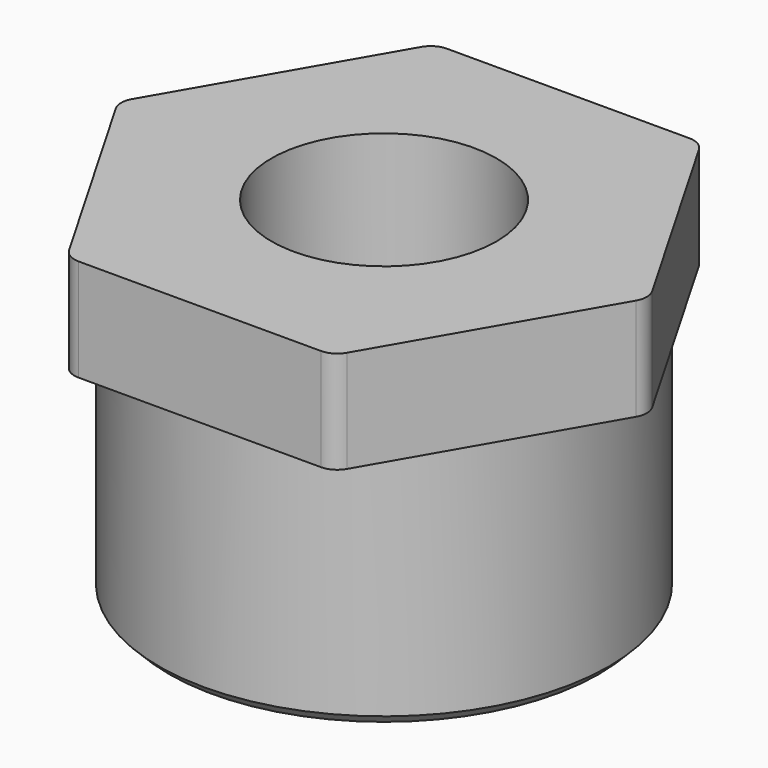
from build123d import *

# Parameters (mm, degrees)
F1_DEPTH = 5
F2_R     = 1
F4_R     = 11
F5_DEPTH = 12
F6_SIZE  = 0.5
F7_R     = 5.5
F8_DEPTH = 17.001


with BuildPart() as f1:
    # F0 (on Top) → F1 (new body)
    with BuildSketch(Plane.XY):
        Polygon((6.5, 11.25833), (-6.5, 11.25833), (-13, 0), (-6.5, -11.25833), (6.5, -11.25833), (13, 0), align=None)
    extrude(amount=-F1_DEPTH)

    # F2
    f2_edges = [f1.edges().sort_by_distance(p)[0] for p in [
        (6.5, -11.25833, -2.5),
        (-6.5, -11.25833, -2.5),
        (-13, 0, -2.5),
        (13, 0, -2.5),
        (6.5, 11.25833, -2.5),
        (-6.5, 11.25833, -2.5),
    ]]
    fillet(f2_edges, radius=F2_R)

    # F4 (on offset) → F5 (join)
    with BuildSketch(Plane(origin=(0, 0, -5), x_dir=(1, 0, 0), z_dir=(0, 0, -1))):
        Circle(F4_R)
    extrude(amount=F5_DEPTH)

    # F6
    f6_edges = [f1.edges().sort_by_distance(p)[0] for p in [
        (-11, 0, -17),
    ]]
    chamfer(f6_edges, length=F6_SIZE)

    # F7 (on face) → F8 (cut, through all)
    with BuildSketch(Plane(origin=(0, 0, -17), x_dir=(1, 0, 0), z_dir=(0, 0, -1))):
        Circle(F7_R)
    extrude(amount=-F8_DEPTH, mode=Mode.SUBTRACT)


solid = f1.part
